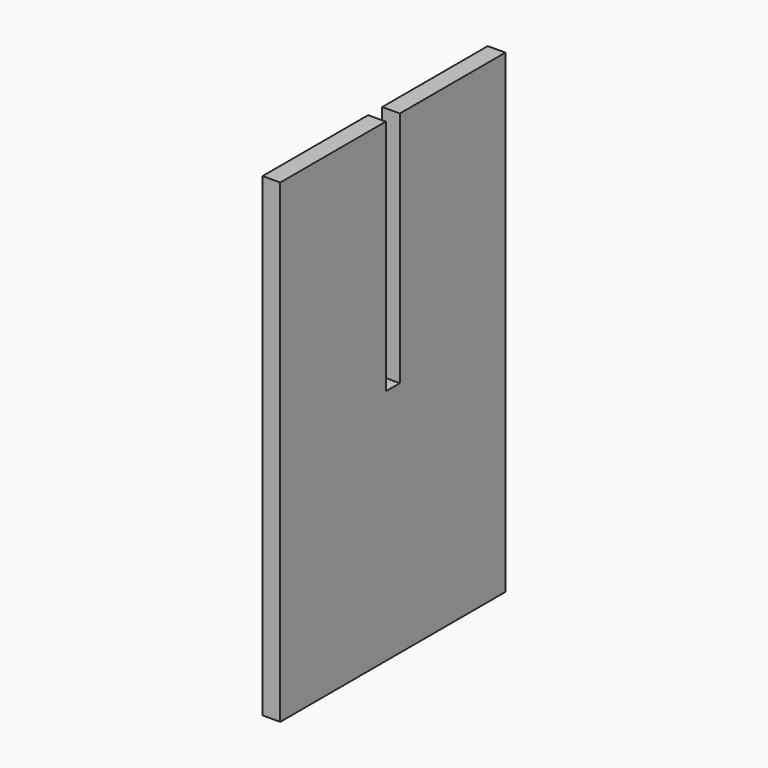
from build123d import *

# Parameters (mm, degrees)
F0_W     = 50.8
F0_H     = 85.725
F1_DEPTH = 3.175
F2_W     = 3.175
F2_H     = 42.8625
F3_DEPTH = 3.176


with BuildPart() as f1:
    # F0 (on Right) → F1 (new body)
    with BuildSketch(Plane.YZ):
        Rectangle(F0_W, F0_H)
    extrude(amount=F1_DEPTH)

    # F2 (on face) → F3 (cut, through all)
    with BuildSketch(Plane.YZ.offset(3.175)):
        with Locations((0, 21.43125)):
            Rectangle(F2_W, F2_H)
    extrude(amount=-F3_DEPTH, mode=Mode.SUBTRACT)


solid = f1.part
